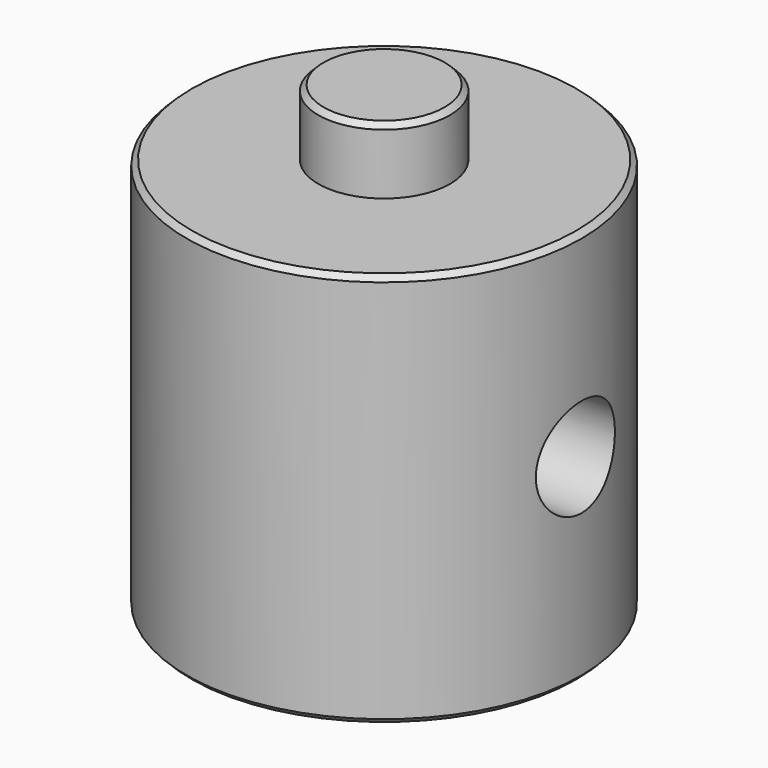
from build123d import *

# Parameters (mm, degrees)
F0_R     = 9.525
F1_DEPTH = 19.05
F2_R     = 3.175
F3_DEPTH = 3.175
F4_R     = 3.175
F5_DEPTH = 3.175
F6_SIZE  = 0.254
F7_R     = 2.38125
F8_DEPTH = 12.7


with BuildPart() as f1:
    # F0 (on Top) → F1 (new body)
    with BuildSketch(Plane.XY):
        Circle(F0_R)
    extrude(amount=F1_DEPTH)

    # F2 (on face) → F3 (join)
    with BuildSketch(Plane(origin=(0, 0, 0), x_dir=(1, 0, 0), z_dir=(0, 0, -1))):
        Circle(F2_R)
    extrude(amount=F3_DEPTH)

    # F4 (on face) → F5 (join)
    with BuildSketch(Plane.XY.offset(19.05)):
        Circle(F4_R)
    extrude(amount=F5_DEPTH)

    # F6
    f6_edges = [f1.edges().sort_by_distance(p)[0] for p in [
        (-9.525, 0, 19.05),
        (-3.175, 0, -3.175),
        (-9.525, 0, 0),
        (-3.175, 0, 22.225),
    ]]
    chamfer(f6_edges, length=F6_SIZE)

    # F7 (on Right) → F8 (cut, symmetric)
    with BuildSketch(Plane.YZ):
        with Locations((0, 9.525)):
            Circle(F7_R)
    extrude(amount=F8_DEPTH, both=True, mode=Mode.SUBTRACT)


solid = f1.part
